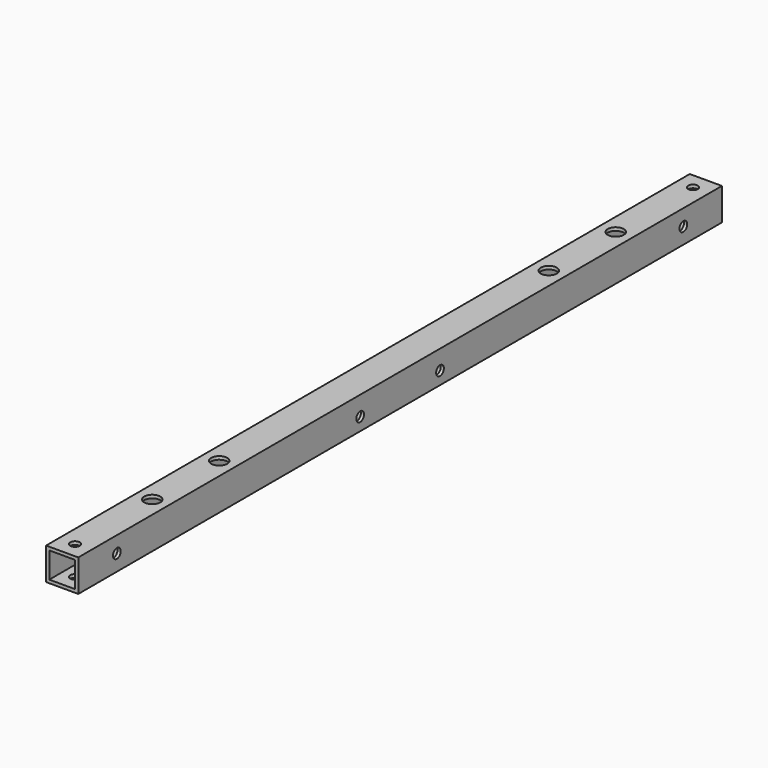
from build123d import *

# Parameters (mm, degrees)
F0_W     = 10
F0_H     = 10
F0_W_2   = 8
F0_H_2   = 8
F1_DEPTH = 250
F2_R     = 1.5
F4_DEPTH = 25
F3_R     = 1.5
F3_R_2   = 2.5
F5_DEPTH = 25


with BuildPart() as f1:
    # F0 (on Front) → F1 (new body)
    with BuildSketch(Plane.XZ):
        Rectangle(F0_W, F0_H)
        Rectangle(F0_W_2, F0_H_2, mode=Mode.SUBTRACT)
    extrude(amount=F1_DEPTH)

    # F2 (on face) → F4 (cut)
    with BuildSketch(Plane.YZ.offset(5)):
        with Locations((-140.5, -1)):
            Circle(F2_R)
        with Locations((-109.5, -1)):
            Circle(F2_R)
        with Locations((-235, 0)):
            Circle(F2_R)
        with Locations((-15, 0)):
            Circle(F2_R)
    extrude(amount=-F4_DEPTH, mode=Mode.SUBTRACT)

    # F3 (on face) → F5 (cut)
    with BuildSketch(Plane.XY.offset(5)):
        with Locations((0, -245)):
            Circle(F3_R)
        with Locations((0, -5)):
            Circle(F3_R)
        with Locations((0, -215)):
            Circle(F3_R_2)
        with Locations((0, -189)):
            Circle(F3_R_2)
        with Locations((0, -61)):
            Circle(F3_R_2)
        with Locations((0, -35)):
            Circle(F3_R_2)
    extrude(amount=-F5_DEPTH, mode=Mode.SUBTRACT)


solid = f1.part
